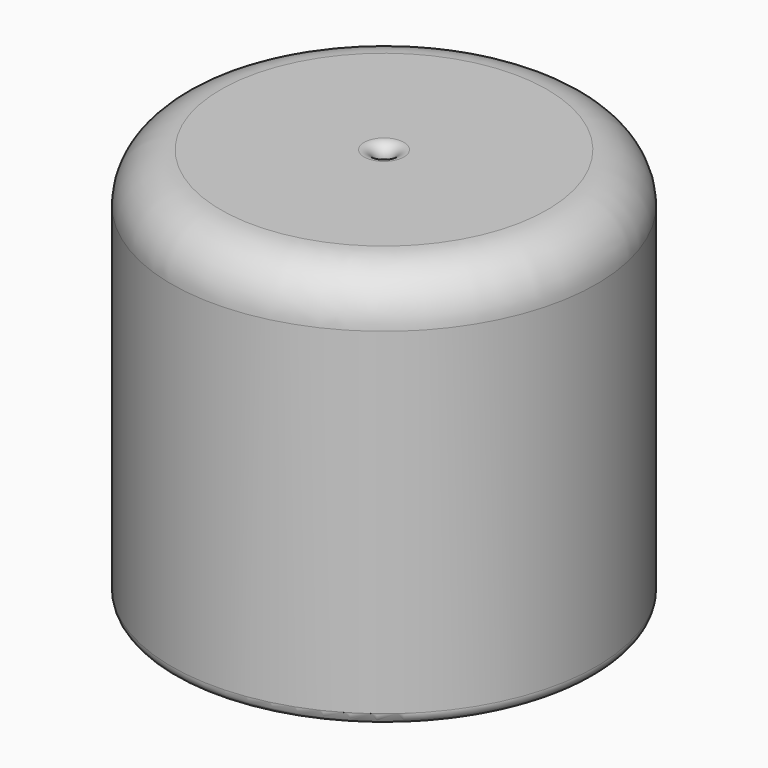
from build123d import *


with BuildPart() as f1:
    # F0 (on Right) → F1 (revolve)
    with BuildSketch(Plane.YZ):
        with BuildLine():
            ThreePointArc((4.445, 0.381), (4.556592, 0.111592), (4.826, 0))
            Line((4.826, 0), (6.4008, 0))
            ThreePointArc((6.4008, 0), (6.670208, 0.111592), (6.7818, 0.381))
            Line((6.7818, 0.381), (6.7818, 11.1252))
            ThreePointArc((6.7818, 11.1252), (6.320552, 12.238752), (5.207, 12.7))
            Line((5.207, 12.7), (0.635, 12.7))
            ThreePointArc((0.635, 12.7), (0.365592, 12.588408), (0.254, 12.319))
            Line((0.254, 12.319), (0.254, 10.7442))
            ThreePointArc((0.254, 10.7442), (0.365592, 10.474792), (0.635, 10.3632))
            Line((0.635, 10.3632), (4.064, 10.3632))
            ThreePointArc((4.064, 10.3632), (4.333408, 10.251608), (4.445, 9.9822))
            Line((4.445, 9.9822), (4.445, 0.381))
        make_face()
    revolve(axis=Axis((0, 0, 9.489433), (0, 0, -1)))


solid = f1.part
